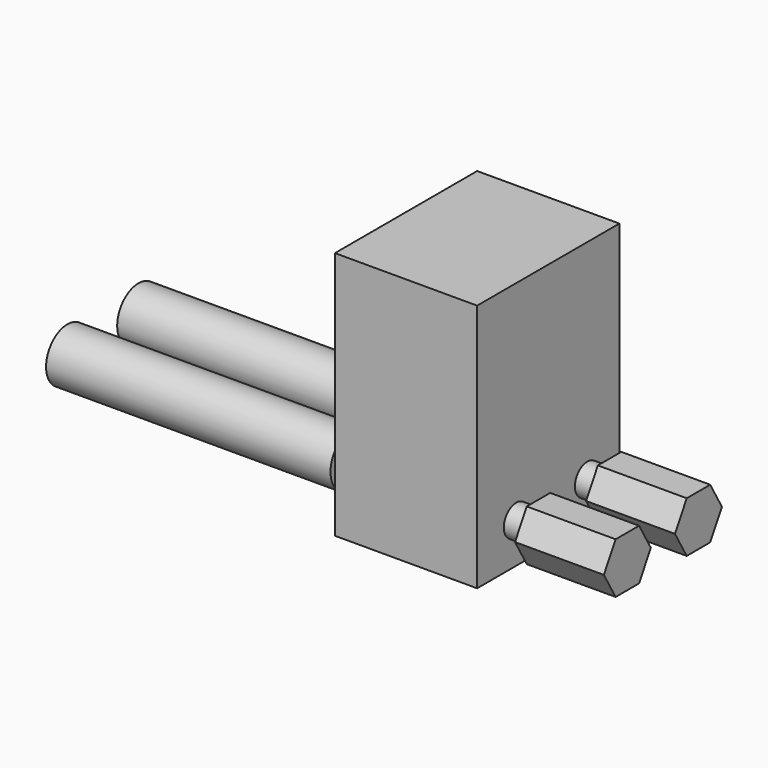
from build123d import *

# Parameters (mm, degrees)
PRISM002_DEPTH           = 10
PRISM002_ROLL_ANGLE      = -90
CYLINDER089_R            = 3
CYLINDER089_DEPTH        = 32
CYLINDER089_ROLL_ANGLE   = -90
CYLINDER090_R            = 3
CYLINDER090_DEPTH        = 32
CYLINDER090_ROLL_ANGLE   = -90
BOX070_W                 = 20
BOX070_H                 = 16
BOX070_DEPTH             = 28
CYLINDER091_R            = 1.75
CYLINDER091_DEPTH        = 32
CYLINDER091_ROLL_ANGLE   = -90
CYLINDER092_R            = 1.75
CYLINDER092_DEPTH        = 32
CYLINDER092_ROLL_ANGLE   = -90
PRISM_DEPTH              = 10
PRISM_ROLL_ANGLE         = -90
CLONE027_PLACEMENT_ANGLE = -90


with BuildPart() as prisma002:
    # Prism002 → Prism002 (new body)
    with BuildSketch(Plane.XY):
        Polygon((3.3, 0), (1.65, 2.857884), (-1.65, 2.857884), (-3.3, 0), (-1.65, -2.857884), (1.65, -2.857884), align=None)
    extrude(amount=PRISM002_DEPTH)


with BuildPart() as prisma002_1:
    # Prism002 roll: moved
    add(prisma002.part.rotate(Axis((0, 0, 0), (1, 0, 0)), PRISM002_ROLL_ANGLE))


with BuildPart() as prisma002_2:
    # Prism002 placement: moved
    add(prisma002_1.part.moved(Location((8, 85, 84))))


with BuildPart() as cilindro017:
    # Cylinder089 → Cylinder089 (new body)
    with BuildSketch(Plane.XY):
        Circle(CYLINDER089_R)
    extrude(amount=CYLINDER089_DEPTH)


with BuildPart() as cilindro017_1:
    # Cylinder089 roll: moved
    add(cilindro017.part.rotate(Axis((0, 0, 0), (1, 0, 0)), CYLINDER089_ROLL_ANGLE))


with BuildPart() as cilindro017_2:
    # Cylinder089 placement: moved
    add(cilindro017_1.part.moved(Location((18, 116, 84))))


with BuildPart() as cilindro018:
    # Cylinder090 → Cylinder090 (new body)
    with BuildSketch(Plane.XY):
        Circle(CYLINDER090_R)
    extrude(amount=CYLINDER090_DEPTH)


with BuildPart() as cilindro018_1:
    # Cylinder090 roll: moved
    add(cilindro018.part.rotate(Axis((0, 0, 0), (1, 0, 0)), CYLINDER090_ROLL_ANGLE))


with BuildPart() as cilindro018_2:
    # Cylinder090 placement: moved
    add(cilindro018_1.part.moved(Location((8, 116, 84))))


with BuildPart() as cubo005:
    # Box070 → Box070 (new body)
    with BuildSketch(Plane(origin=(3.5, 97.5, 79.5), x_dir=(1, 0, 0), z_dir=(0, 0, 1))):
        with Locations((10, 8)):
            Rectangle(BOX070_W, BOX070_H)
    extrude(amount=BOX070_DEPTH)


with BuildPart() as cilindro013:
    # Cylinder091 → Cylinder091 (new body)
    with BuildSketch(Plane.XY):
        Circle(CYLINDER091_R)
    extrude(amount=CYLINDER091_DEPTH)


with BuildPart() as cilindro013_1:
    # Cylinder091 roll: moved
    add(cilindro013.part.rotate(Axis((0, 0, 0), (1, 0, 0)), CYLINDER091_ROLL_ANGLE))


with BuildPart() as cilindro013_2:
    # Cylinder091 placement: moved
    add(cilindro013_1.part.moved(Location((18, 90, 84))))


with BuildPart() as cilindro012:
    # Cylinder092 → Cylinder092 (new body)
    with BuildSketch(Plane.XY):
        Circle(CYLINDER092_R)
    extrude(amount=CYLINDER092_DEPTH)


with BuildPart() as cilindro012_1:
    # Cylinder092 roll: moved
    add(cilindro012.part.rotate(Axis((0, 0, 0), (1, 0, 0)), CYLINDER092_ROLL_ANGLE))


with BuildPart() as cilindro012_2:
    # Cylinder092 placement: moved
    add(cilindro012_1.part.moved(Location((8, 90, 84))))


with BuildPart() as clone_of_arm_positive_cut_left:
    # Prism → Prism (new body)
    with BuildSketch(Plane.XY):
        Polygon((3.3, 0), (1.65, 2.857884), (-1.65, 2.857884), (-3.3, 0), (-1.65, -2.857884), (1.65, -2.857884), align=None)
    extrude(amount=PRISM_DEPTH)


with BuildPart() as clone_of_arm_positive_cut_left_1:
    # Prism roll: moved
    add(clone_of_arm_positive_cut_left.part.rotate(Axis((0, 0, 0), (1, 0, 0)), PRISM_ROLL_ANGLE))


with BuildPart() as clone_of_arm_positive_cut_left_2:
    # Prism placement: moved
    add(clone_of_arm_positive_cut_left_1.part.moved(Location((18, 85, 84))))

    # Fusion066: union Prisma002, Cilindro017, Cilindro018, Cubo005, Cilindro013, Cilindro012
    add(prisma002_2.part)
    add(cilindro017_2.part)
    add(cilindro018_2.part)
    add(cubo005.part)
    add(cilindro013_2.part)
    add(cilindro012_2.part)


with BuildPart() as clone_of_arm_positive_cut_left_3:
    # Clone027 placement: moved
    add(clone_of_arm_positive_cut_left_2.part.moved(Location((-275, 70, 2.8))).rotate(Axis((-275, 70, 2.8), (0, 0, 1)), CLONE027_PLACEMENT_ANGLE))


with BuildPart() as clone_of_arm_positive_cut_right:
    # Part__Mirroring007017: instance of Clone of arm-positive-cut-left
    add(clone_of_arm_positive_cut_left_3.part.mirror(Plane(origin=(0, 0, 0), x_dir=(0, -1, 0), z_dir=(1, 0, 0))))


with BuildPart() as clone_of_arm_positive_cut_right_1:
    # Part__Mirroring007017 placement: moved
    add(clone_of_arm_positive_cut_right.part.moved(Location((-478, 0, 0))))


solid = clone_of_arm_positive_cut_right_1.part
